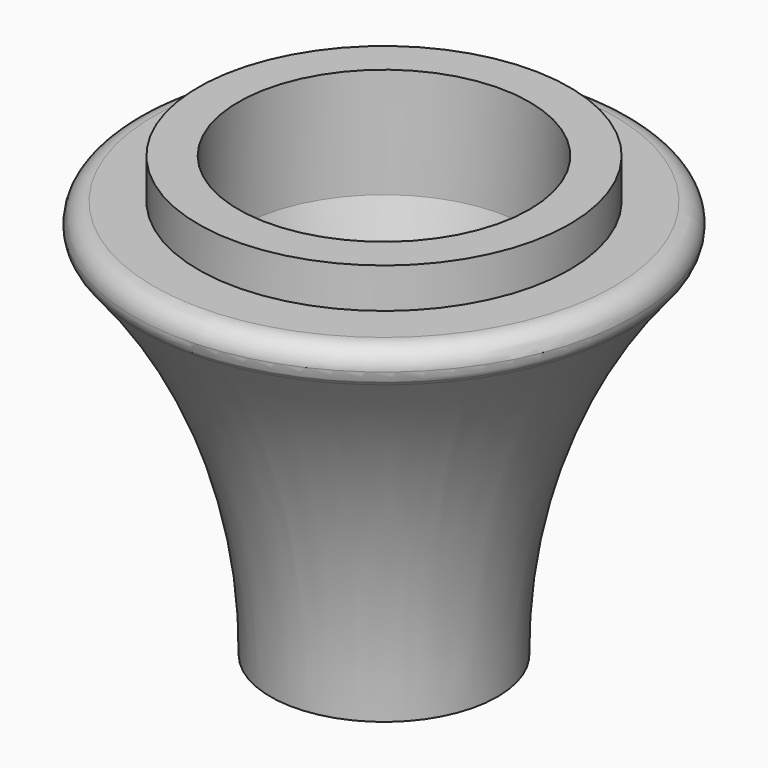
from build123d import *

# Parameters (mm, degrees)
F3_D = 12


with BuildPart() as f1:
    # F0 (on Front) → F1 (revolve)
    with BuildSketch(Plane.XZ):
        with BuildLine():
            ThreePointArc((2.70329, -2.948258), (-3.727803, -1.450339), (0, 4))
            Line((0, 4), (-8.947457, 4))
            Line((-8.947457, 4), (-8.947457, 12))
            Line((-8.947457, 12), (-16.947457, 12))
            Line((-16.947457, 12), (-16.947457, -10))
            Line((-16.947457, -10), (-30.455372, -53.775714))
            Line((-30.455372, -53.775714), (-46.025067, -53.775714))
            Line((-46.025067, -53.775714), (-46.025067, -59.775714))
            Line((-46.025067, -59.775714), (-31.21658, -59.775714))
            Line((-31.21658, -59.775714), (-31.342105, -75.775714))
            Line((-31.342105, -75.775714), (-23.342105, -75.775714))
            ThreePointArc((-23.342105, -75.775714), (-16.805492, -37.042357), (2.70329, -2.948258))
        make_face()
        with BuildLine():
            ThreePointArc((2.70329, -2.948258), (-3.727803, -1.450339), (0, 4))
            Line((0, 4), (-8.947457, 4))
            Line((-8.947457, 4), (-8.947457, 12))
            Line((-8.947457, 12), (-16.947457, 12))
            Line((-16.947457, 12), (-16.947457, -10))
            Line((-16.947457, -10), (-30.455372, -53.775714))
            Line((-30.455372, -53.775714), (-46.025067, -53.775714))
            Line((-46.025067, -53.775714), (-46.025067, -59.775714))
            Line((-46.025067, -59.775714), (-31.21658, -59.775714))
            Line((-31.21658, -59.775714), (-31.342105, -75.775714))
            Line((-31.342105, -75.775714), (-23.342105, -75.775714))
            ThreePointArc((-23.342105, -75.775714), (-16.805492, -37.042357), (2.70329, -2.948258))
        make_face()
        with BuildLine():
            ThreePointArc((3.362371, -2.16667), (3.837283, -1.129273), (4, 0))
            ThreePointArc((4, 0), (2.828427, 2.828427), (0, 4))
            ThreePointArc((0, 4), (-3.727803, -1.450339), (2.70329, -2.948258))
            ThreePointArc((2.70329, -2.948258), (3.031939, -2.556712), (3.362371, -2.16667))
        make_face()
    revolve(axis=Axis((-46.025067, 0, -56.775714), (0, 0, 1)))

    # F3 (through all)
    with Locations(Plane(origin=(0, 0, -59.775714), x_dir=(1, 0, 0), z_dir=(0, 0, -1))):
        with Locations((-46.025067, 0)):
            Hole(F3_D / 2)


solid = f1.part
